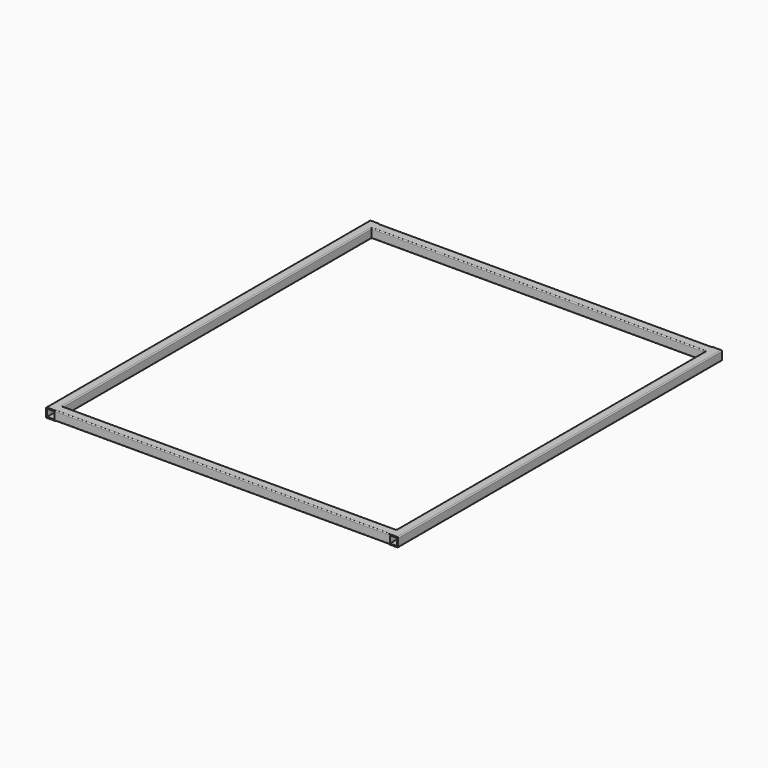
from build123d import *

# Parameters (mm, degrees)
F1_W      = 29.21
F1_H      = 29.21
F2_DEPTH  = 831.85
F3_W      = 29.21
F3_H      = 29.21
F4_DEPTH  = 685.8
F7_DEPTH  = 38.1
F10_DEPTH = 38.1


with BuildPart() as f2:
    # F1 (on Front) → F2 (new body, symmetric)
    with BuildSketch(Plane.XZ):
        with BuildLine():
            ThreePointArc((-685.8, 15.24), (-686.915923, 17.934077), (-689.61, 19.05))
            Line((-689.61, 19.05), (-720.09, 19.05))
            ThreePointArc((-720.09, 19.05), (-722.784077, 17.934077), (-723.9, 15.24))
            Line((-723.9, 15.24), (-723.9, -15.24))
            ThreePointArc((-723.9, -15.24), (-722.784077, -17.934077), (-720.09, -19.05))
            Line((-720.09, -19.05), (-689.61, -19.05))
            ThreePointArc((-689.61, -19.05), (-686.915923, -17.934077), (-685.8, -15.24))
            Line((-685.8, -15.24), (-685.8, 15.24))
        make_face()
        with Locations((-704.85, 0)):
            Rectangle(F1_W, F1_H, mode=Mode.SUBTRACT)
        with BuildLine():
            ThreePointArc((723.9, 15.24), (722.784077, 17.934077), (720.09, 19.05))
            Line((720.09, 19.05), (689.61, 19.05))
            ThreePointArc((689.61, 19.05), (686.915923, 17.934077), (685.8, 15.24))
            Line((685.8, 15.24), (685.8, -15.24))
            ThreePointArc((685.8, -15.24), (686.915923, -17.934077), (689.61, -19.05))
            Line((689.61, -19.05), (720.09, -19.05))
            ThreePointArc((720.09, -19.05), (722.784077, -17.934077), (723.9, -15.24))
            Line((723.9, -15.24), (723.9, 15.24))
        make_face()
        with Locations((704.85, 0)):
            Rectangle(F1_W, F1_H, mode=Mode.SUBTRACT)
    extrude(amount=F2_DEPTH, both=True)

    # F3 (on Right) → F4 (join, symmetric)
    with BuildSketch(Plane.YZ):
        with BuildLine():
            ThreePointArc((-793.75, 15.24), (-794.865923, 17.934077), (-797.56, 19.05))
            Line((-797.56, 19.05), (-828.04, 19.05))
            ThreePointArc((-828.04, 19.05), (-830.734077, 17.934077), (-831.85, 15.24))
            Line((-831.85, 15.24), (-831.85, -15.24))
            ThreePointArc((-831.85, -15.24), (-830.734077, -17.934077), (-828.04, -19.05))
            Line((-828.04, -19.05), (-797.56, -19.05))
            ThreePointArc((-797.56, -19.05), (-794.865923, -17.934077), (-793.75, -15.24))
            Line((-793.75, -15.24), (-793.75, 15.24))
        make_face()
        with Locations((-812.8, 0)):
            Rectangle(F3_W, F3_H, mode=Mode.SUBTRACT)
        with BuildLine():
            ThreePointArc((831.85, 15.24), (830.734077, 17.934077), (828.04, 19.05))
            Line((828.04, 19.05), (797.56, 19.05))
            ThreePointArc((797.56, 19.05), (794.865923, 17.934077), (793.75, 15.24))
            Line((793.75, 15.24), (793.75, -15.24))
            ThreePointArc((793.75, -15.24), (794.865923, -17.934077), (797.56, -19.05))
            Line((797.56, -19.05), (828.04, -19.05))
            ThreePointArc((828.04, -19.05), (830.734077, -17.934077), (831.85, -15.24))
            Line((831.85, -15.24), (831.85, 15.24))
        make_face()
        with Locations((812.8, 0)):
            Rectangle(F3_W, F3_H, mode=Mode.SUBTRACT)
    extrude(amount=F4_DEPTH, both=True)

    # F6 (on offset) → F7 (join)
    with BuildSketch(Plane.XZ.offset(831.85)):
        Polygon((-685.8, 15.24), (-685.8, 19.05), (-689.61, 19.05), align=None)
        Polygon((685.8, 15.24), (689.61, 19.05), (685.8, 19.05), align=None)
        Polygon((-689.61, -19.05), (-685.8, -19.05), (-685.8, -15.24), align=None)
        Polygon((685.8, -15.24), (685.8, -19.05), (689.61, -19.05), align=None)
    extrude(amount=-F7_DEPTH)

    # F9 (on offset) → F10 (join)
    with BuildSketch(Plane(origin=(0, 831.85, 0), x_dir=(1, 0, 0), z_dir=(0, 1, 0))):
        Polygon((-685.8, 15.24), (-685.8, 19.05), (-689.61, 19.05), align=None)
        Polygon((689.61, 19.05), (685.8, 19.05), (685.8, 15.24), align=None)
        Polygon((685.8, -15.24), (685.8, -19.05), (689.61, -19.05), align=None)
        Polygon((-689.61, -19.05), (-685.8, -19.05), (-685.8, -15.24), align=None)
    extrude(amount=-F10_DEPTH)


solid = f2.part
